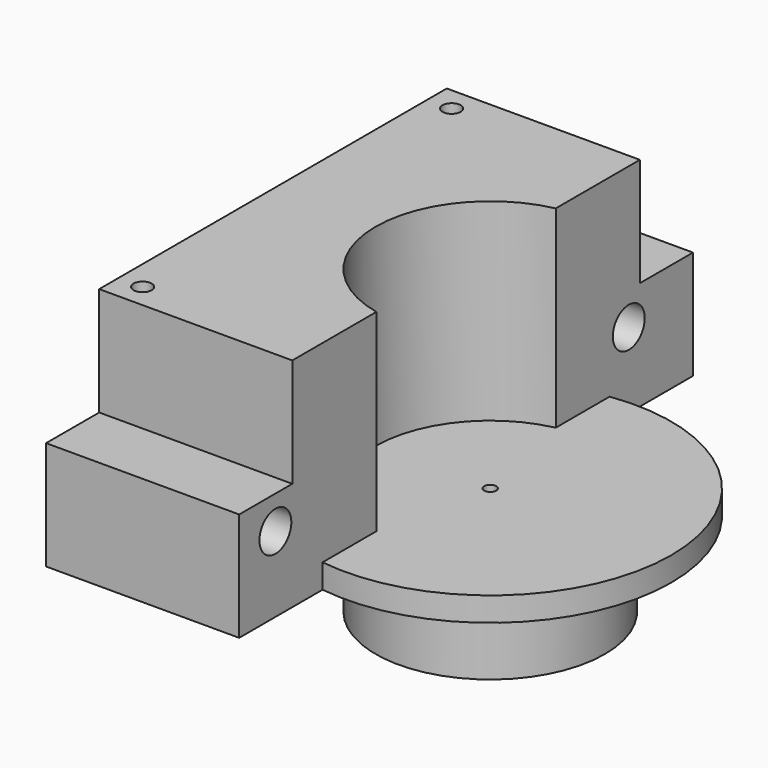
from build123d import *

# Parameters (mm, degrees)
CYLINDER011_R     = 0.5
CYLINDER011_DEPTH = 10
CYLINDER010_R     = 9.5
CYLINDER010_DEPTH = 50
CYLINDER009_R     = 0.75
CYLINDER009_DEPTH = 10
CYLINDER008_R     = 0.75
CYLINDER008_DEPTH = 10
CYLINDER007_R     = 1.65
CYLINDER007_DEPTH = 100
CYLINDER006_R     = 1.65
CYLINDER006_DEPTH = 100
CYLINDER001_R     = 15
CYLINDER001_DEPTH = 2
BOX003_W          = 16
BOX003_H          = 36
BOX003_DEPTH      = 16
BOX004_W          = 16
BOX004_H          = 47
BOX004_DEPTH      = 9
CYLINDER_R        = 9.5
CYLINDER_DEPTH    = 7


with BuildPart() as zylinder011:
    # Cylinder011 → Cylinder011 (new body)
    with BuildSketch(Plane.XY.offset(2)):
        Circle(CYLINDER011_R)
    extrude(amount=CYLINDER011_DEPTH)


with BuildPart() as zylinder010:
    # Cylinder010 → Cylinder010 (new body)
    with BuildSketch(Plane.XY.offset(9)):
        Circle(CYLINDER010_R)
    extrude(amount=CYLINDER010_DEPTH)


with BuildPart() as zylinder009:
    # Cylinder009 → Cylinder009 (new body)
    with BuildSketch(Plane(origin=(-16, -16, 16), x_dir=(1, 0, 0), z_dir=(0, 0, 1))):
        Circle(CYLINDER009_R)
    extrude(amount=CYLINDER009_DEPTH)


with BuildPart() as m1_holes_for_modulation_coil:
    # Cylinder008 → Cylinder008 (new body)
    with BuildSketch(Plane(origin=(-16, 16, 16), x_dir=(1, 0, 0), z_dir=(0, 0, 1))):
        Circle(CYLINDER008_R)
    extrude(amount=CYLINDER008_DEPTH)

    # Compound004: union Zylinder009
    add(zylinder009.part)


with BuildPart() as zylinder007:
    # Cylinder007 → Cylinder007 (new body)
    with BuildSketch(Plane(origin=(-40, -19.75, 13.25), x_dir=(0, 0, -1), z_dir=(1, 0, 0))):
        Circle(CYLINDER007_R)
    extrude(amount=CYLINDER007_DEPTH)


with BuildPart() as compound003:
    # Cylinder006 → Cylinder006 (new body)
    with BuildSketch(Plane(origin=(-40, 16.85, 13.25), x_dir=(0, 0, -1), z_dir=(1, 0, 0))):
        Circle(CYLINDER006_R)
    extrude(amount=CYLINDER006_DEPTH)

    # Compound003: union Zylinder007
    add(zylinder007.part)


with BuildPart() as zylinder001:
    # Cylinder001 → Cylinder001 (new body)
    with BuildSketch(Plane.XY.offset(7)):
        Circle(CYLINDER001_R)
    extrude(amount=CYLINDER001_DEPTH)


with BuildPart() as obj1:
    # Box003 → Box003 (new body)
    with BuildSketch(Plane(origin=(-18, -18, 9), x_dir=(1, 0, 0), z_dir=(0, 0, 1))):
        with Locations((8, 18)):
            Rectangle(BOX003_W, BOX003_H)
    extrude(amount=BOX003_DEPTH)


with BuildPart() as obj2:
    # Box004 → Box004 (new body)
    with BuildSketch(Plane(origin=(-18, -23.5, 7), x_dir=(1, 0, 0), z_dir=(0, 0, 1))):
        with Locations((8, 23.5)):
            Rectangle(BOX004_W, BOX004_H)
    extrude(amount=BOX004_DEPTH)


with BuildPart() as cut005:
    # Cylinder → Cylinder (new body)
    with BuildSketch(Plane.XY):
        Circle(CYLINDER_R)
    extrude(amount=CYLINDER_DEPTH)

    # Fusion: union Zylinder001, obj1, obj2
    add(zylinder001.part)
    add(obj1.part)
    add(obj2.part)

    # Cut002: cut Compound003
    add(compound003.part, mode=Mode.SUBTRACT)

    # Cut003: cut M1 holes for modulation coil
    add(m1_holes_for_modulation_coil.part, mode=Mode.SUBTRACT)

    # Cut004: cut Zylinder010
    add(zylinder010.part, mode=Mode.SUBTRACT)

    # Cut005: cut Zylinder011
    add(zylinder011.part, mode=Mode.SUBTRACT)


solid = cut005.part
